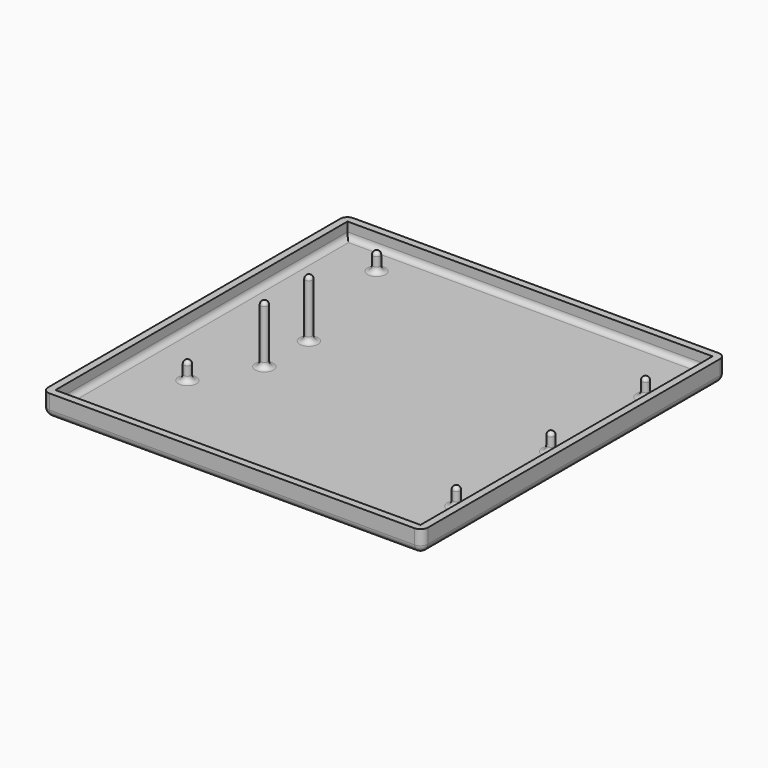
from build123d import *

# Parameters (mm, degrees)
SKETCH009_W    = 100
SKETCH009_H    = 100
PAD007_DEPTH   = 4
THICKNESS001_T = 2
SKETCH007_R    = 1
PAD008_DEPTH   = 5
SKETCH008_R    = 1
PAD009_DEPTH   = 16
FILLET003_R    = 1
FILLET002_R    = 1.5


with BuildPart() as part:
    # Sketch009 → Pad007 (new body)
    with BuildSketch(Plane.XY):
        with Locations((50, -50)):
            Rectangle(SKETCH009_W, SKETCH009_H)
    extrude(amount=PAD007_DEPTH)

    # Thickness001
    thickness001_openings = [part.faces().sort_by_distance(p)[0] for p in [
        (50, -50, 4),
    ]]
    offset(amount=THICKNESS001_T, openings=thickness001_openings)

    # Sketch007 → Pad008 (join)
    with BuildSketch(Plane.XY):
        with Locations((14.438, -8.087)):
            Circle(SKETCH007_R)
        with Locations((95.723, -17.613)):
            Circle(SKETCH007_R)
        with Locations((95.723, -50)):
            Circle(SKETCH007_R)
        with Locations((95.723, -82.387)):
            Circle(SKETCH007_R)
        with Locations((14.438, -72.861)):
            Circle(SKETCH007_R)
    extrude(amount=PAD008_DEPTH)

    # Sketch008 → Pad009 (join)
    with BuildSketch(Plane.XY):
        with Locations((23.328, -42.38)):
            Circle(SKETCH008_R)
        with Locations((23.328, -57.62)):
            Circle(SKETCH008_R)
    extrude(amount=PAD009_DEPTH)

    # Fillet003
    fillet003_edges = [part.edges().sort_by_distance(p)[0] for p in [
        (22.328, -57.62, 16),
        (22.328, -42.38, 16),
        (13.438, -8.087, 5),
        (13.438, -72.861, 5),
        (94.723, -82.387, 5),
        (94.723, -50, 5),
        (94.723, -17.613, 5),
    ]]
    fillet(fillet003_edges, radius=FILLET003_R)

    # Fillet002
    fillet002_edges = [part.edges().sort_by_distance(p)[0] for p in [
        (50, 0, 0),
        (0, -50, 0),
        (100, -50, 0),
        (50, -100, 0),
        (94.723, -17.613, 0),
        (94.723, -50, 0),
        (13.438, -72.861, 0),
        (22.328, -42.38, 0),
        (22.328, -57.62, 0),
        (94.723, -82.387, 0),
        (13.438, -8.087, 0),
    ]]
    fillet(fillet002_edges, radius=FILLET002_R)


with BuildPart() as part_1:
    # Body003 placement: moved
    add(part.part.moved(Location((0, 0, -2))))


solid = part_1.part
